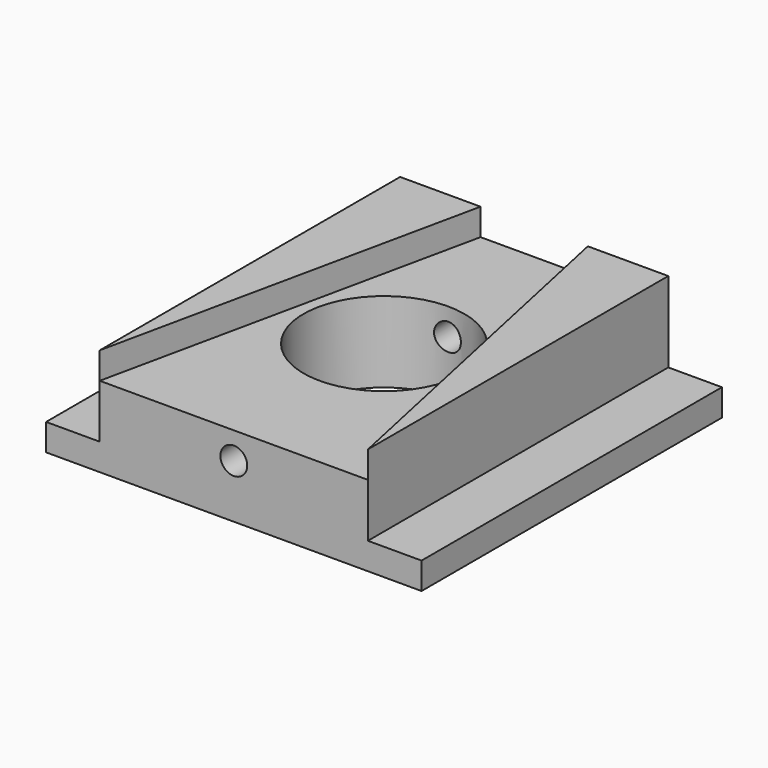
from build123d import *

# Parameters (mm, degrees)
F0_W     = 177.8
F0_H     = 177.8
F0_R     = 38.1
F1_DEPTH = 38.1
F2_W     = 25.4
F2_H     = 177.8
F3_DEPTH = 25.4
F4_R     = 6.35
F5_DEPTH = 177.801
F7_DEPTH = 12.7


with BuildPart() as f1:
    # F0 (on Top) → F1 (new body)
    with BuildSketch(Plane.XY):
        Rectangle(F0_W, F0_H)
        Circle(F0_R, mode=Mode.SUBTRACT)
    extrude(amount=F1_DEPTH)

    # F2 (on face) → F3 (cut)
    with BuildSketch(Plane.XY.offset(38.1)):
        with Locations((-76.2, 0)):
            Rectangle(F2_W, F2_H)
        with Locations((76.2, 0)):
            Rectangle(F2_W, F2_H)
    extrude(amount=-F3_DEPTH, mode=Mode.SUBTRACT)

    # F4 (on face) → F5 (cut, through all)
    with BuildSketch(Plane.XZ.offset(88.9)):
        with Locations((0, 25.4)):
            Circle(F4_R)
    extrude(amount=-F5_DEPTH, mode=Mode.SUBTRACT)

    # F6 (on face) → F7 (join)
    with BuildSketch(Plane.XY.offset(38.1)):
        Polygon((63.5, 88.9), (25.4, 88.9), (63.5, -88.9), align=None)
        Polygon((-63.5, -88.9), (-25.4, 88.9), (-63.5, 88.9), align=None)
    extrude(amount=F7_DEPTH)


solid = f1.part
